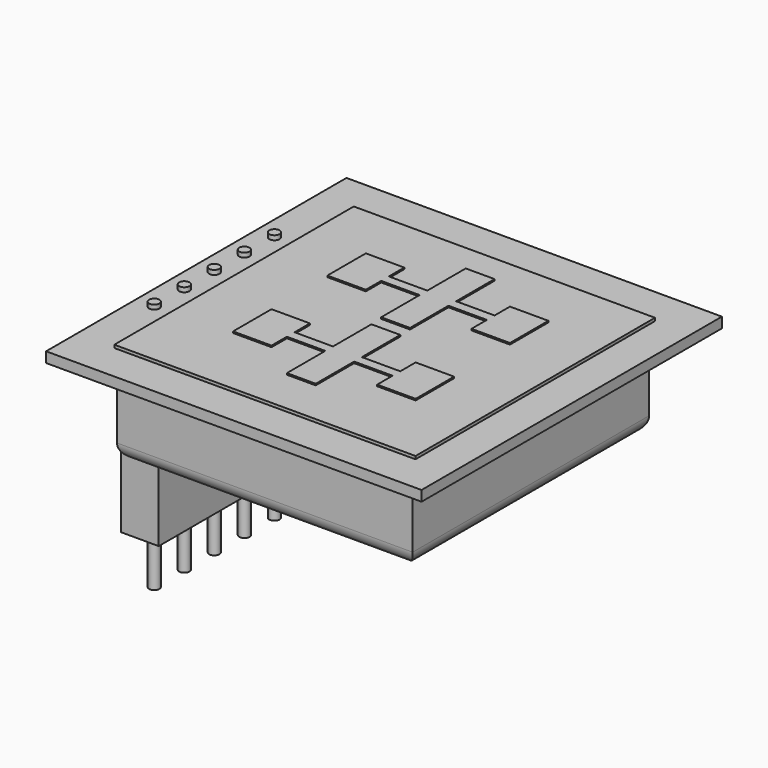
from build123d import *

# Parameters (mm, degrees)
BOX002_W          = 2.54
BOX002_H          = 12.7
BOX002_DEPTH      = 2.54
CYLINDER_R        = 0.35
CYLINDER_DEPTH    = 17
CYLINDER001_R     = 0.35
CYLINDER001_DEPTH = 17
CYLINDER002_R     = 0.35
CYLINDER002_DEPTH = 17
CYLINDER003_R     = 0.35
CYLINDER003_DEPTH = 17
CYLINDER004_R     = 0.35
CYLINDER004_DEPTH = 17
BOX001_W          = 20
BOX001_H          = 20
BOX001_DEPTH      = 6
FILLET_R          = 1
BOX003_W          = 2.54
BOX003_H          = 12.7
BOX003_DEPTH      = 6
PAD_DEPTH         = 1
SKETCH002_W       = 20.378432
SKETCH002_H       = 20.250089
PAD001_DEPTH      = 0.5
PAD002_DEPTH      = 1
BOX_W             = 25.4
BOX_H             = 25.4
BOX_DEPTH         = 0.7


with BuildPart() as obj1:
    # Box002 → Box002 (new body)
    with BuildSketch(Plane(origin=(0, 6.35, -2.5), x_dir=(1, 0, 0), z_dir=(0, 0, 1))):
        with Locations((1.27, 6.35)):
            Rectangle(BOX002_W, BOX002_H)
    extrude(amount=BOX002_DEPTH)


with BuildPart() as zylinder:
    # Cylinder → Cylinder (new body)
    with BuildSketch(Plane(origin=(1.27, 10.1, -16), x_dir=(1, 0, 0), z_dir=(0, 0, 1))):
        Circle(CYLINDER_R)
    extrude(amount=CYLINDER_DEPTH)


with BuildPart() as zylinder001:
    # Cylinder001 → Cylinder001 (new body)
    with BuildSketch(Plane(origin=(1.27, 12.64, -16), x_dir=(1, 0, 0), z_dir=(0, 0, 1))):
        Circle(CYLINDER001_R)
    extrude(amount=CYLINDER001_DEPTH)


with BuildPart() as zylinder002:
    # Cylinder002 → Cylinder002 (new body)
    with BuildSketch(Plane(origin=(1.27, 7.56, -16), x_dir=(1, 0, 0), z_dir=(0, 0, 1))):
        Circle(CYLINDER002_R)
    extrude(amount=CYLINDER002_DEPTH)


with BuildPart() as zylinder003:
    # Cylinder003 → Cylinder003 (new body)
    with BuildSketch(Plane(origin=(1.27, 15.18, -16), x_dir=(1, 0, 0), z_dir=(0, 0, 1))):
        Circle(CYLINDER003_R)
    extrude(amount=CYLINDER003_DEPTH)


with BuildPart() as zylinder004:
    # Cylinder004 → Cylinder004 (new body)
    with BuildSketch(Plane(origin=(1.27, 17.72, -16), x_dir=(1, 0, 0), z_dir=(0, 0, 1))):
        Circle(CYLINDER004_R)
    extrude(amount=CYLINDER004_DEPTH)


with BuildPart() as fillet_body:
    # Box001 → Box001 (new body)
    with BuildSketch(Plane(origin=(2.64, 2.7, -6), x_dir=(1, 0, 0), z_dir=(0, 0, 1))):
        with Locations((10, 10)):
            Rectangle(BOX001_W, BOX001_H)
    extrude(amount=BOX001_DEPTH)

    # Fillet
    fillet_edges = [fillet_body.edges().sort_by_distance(p)[0] for p in [
        (2.64, 12.7, -6),
        (22.64, 12.7, -6),
        (12.64, 2.7, -6),
        (12.64, 22.7, -6),
    ]]
    fillet(fillet_edges, radius=FILLET_R)


with BuildPart() as obj2:
    # Box003 → Box003 (new body)
    with BuildSketch(Plane(origin=(0, 6.35, -12.66), x_dir=(1, 0, 0), z_dir=(0, 0, 1))):
        with Locations((1.27, 6.35)):
            Rectangle(BOX003_W, BOX003_H)
    extrude(amount=BOX003_DEPTH)


with BuildPart() as body:
    # Sketch001 → Pad (new body)
    with BuildSketch(Plane.XY):
        Polygon((-18.85, 18.85), (-16.25, 18.85), (-16.25, 17.55), (-13.65, 17.55), (-13.65, 20.8), (-11.7, 20.8), (-11.7, 17.55), (-9.1, 17.55), (-9.1, 18.85), (-6.5, 18.85), (-6.5, 15.6), (-9.1, 15.6), (-9.1, 16.9), (-11.7, 16.9), (-11.7, 13.65), (-13.65, 13.65), (-13.65, 16.9), (-16.25, 16.9), (-16.25, 15.6), (-18.85, 15.6), align=None)
    extrude(amount=PAD_DEPTH)


with BuildPart() as body_1:
    # Body placement: moved
    add(body.part.moved(Location((25.4, 0, 0))))


with BuildPart() as body001:
    # Sketch002 → Pad001 (new body)
    with BuildSketch(Plane.XY):
        with Locations((-12.729216, 12.665044)):
            Rectangle(SKETCH002_W, SKETCH002_H)
    extrude(amount=PAD001_DEPTH)


with BuildPart() as body001_1:
    # Body001 placement: moved
    add(body001.part.moved(Location((25.5, 0, 0.4))))


with BuildPart() as body002:
    # Sketch003 → Pad002 (new body)
    with BuildSketch(Plane.XY):
        Polygon((-18.85, 18.85), (-16.25, 18.85), (-16.25, 17.55), (-13.65, 17.55), (-13.65, 20.8), (-11.7, 20.8), (-11.7, 17.55), (-9.1, 17.55), (-9.1, 18.85), (-6.5, 18.85), (-6.5, 15.6), (-9.1, 15.6), (-9.1, 16.9), (-11.7, 16.9), (-11.7, 13.65), (-13.65, 13.65), (-13.65, 16.9), (-16.25, 16.9), (-16.25, 15.6), (-18.85, 15.6), align=None)
    extrude(amount=PAD002_DEPTH)


with BuildPart() as body002_1:
    # Body002 placement: moved
    add(body002.part.moved(Location((25.5, -8.1, 0))))


with BuildPart() as fusion:
    # Box → Box (new body)
    with BuildSketch(Plane.XY):
        with Locations((12.7, 12.7)):
            Rectangle(BOX_W, BOX_H)
    extrude(amount=BOX_DEPTH)

    # Fusion: union obj1, Zylinder, Zylinder001, Zylinder002, Zylinder003, Zylinder004, Fillet body, obj2, Body, Body001, Body002
    add(obj1.part)
    add(zylinder.part)
    add(zylinder001.part)
    add(zylinder002.part)
    add(zylinder003.part)
    add(zylinder004.part)
    add(fillet_body.part)
    add(obj2.part)
    add(body_1.part)
    add(body001_1.part)
    add(body002_1.part)


solid = fusion.part
